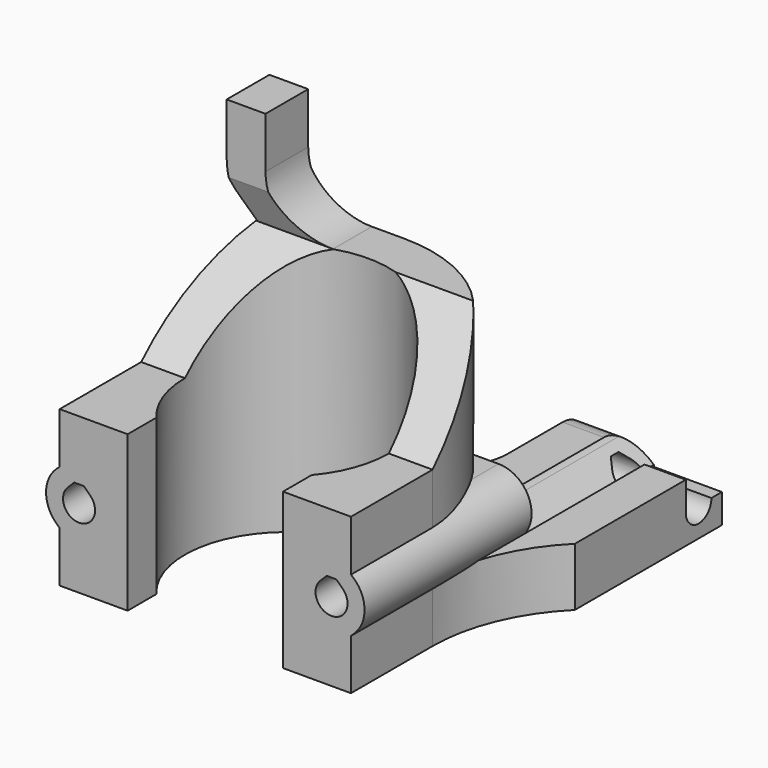
from build123d import *

# Parameters (mm, degrees)
PAD003_DEPTH    = 6.5
SKETCH016_R     = 10.5
POCKET005_DEPTH = 37.001
POCKET006_DEPTH = 20.001
SKETCH018_R     = 3.4
POCKET007_DEPTH = 20
PAD001_DEPTH    = 21.5
PAD002_DEPTH    = 6
PAD_DEPTH       = 26
SKETCH010_R     = 3.4
POCKET_DEPTH    = 20
POCKET001_DEPTH = 26.001
POCKET002_DEPTH = 41.501
POCKET003_DEPTH = 40.001
POCKET004_DEPTH = 7


with BuildPart() as body006:
    # Sketch015 → Pad003 (new body)
    with BuildSketch(Plane.XZ.offset(-19)):
        with BuildLine():
            Line((7.845523, 28.25), (9, 26))
            Line((9, 26), (9, 0))
            Line((9, 0), (20, 0))
            Line((20, 0), (20, 26))
            Line((16.75, 26), (20, 26))
            ThreePointArc((11, 31.75), (12.684136, 27.684136), (16.75, 26))
            Line((11, 31.75), (11, 37))
            Line((11, 37), (7, 37))
            Line((7, 37), (7, 31.75))
            ThreePointArc((7, 31.75), (7.214378, 29.949659), (7.845523, 28.25))
        make_face()
    extrude(amount=-PAD003_DEPTH)

    # Sketch016 → Pocket005 (cut, through all)
    with BuildSketch(Plane.XY):
        with Locations((20, 10.5)):
            Circle(SKETCH016_R)
    extrude(amount=POCKET005_DEPTH, mode=Mode.SUBTRACT)

    # Sketch017 → Pocket006 (cut, through all)
    with BuildSketch(Plane.YZ):
        Polygon((20.5, 0), (20.5, 26), (19, 30), (19, 0), align=None)
        Polygon((25.5, 26), (24.5, 30), (24.5, 37), (25.5, 37), align=None)
    extrude(amount=POCKET006_DEPTH, mode=Mode.SUBTRACT)

    # Sketch018 → Pocket007 (cut)
    with BuildSketch(Plane.XZ.offset(-41.5)):
        with Locations((7, 8)):
            Circle(SKETCH018_R)
        with BuildLine():
            ThreePointArc((35.404163, 5.595837), (33, 11.4), (30.595837, 5.595837))
            Line((30.595837, 5.595837), (33, 3.191674))
            Line((33, 3.191674), (35.404163, 5.595837))
        make_face()
    extrude(amount=POCKET007_DEPTH, mode=Mode.SUBTRACT)


with BuildPart() as obj1:
    # Sketch006 → Pad001 (new body)
    with BuildSketch(Plane.XZ):
        with BuildLine():
            ThreePointArc((7, 11.4), (3.85881, 9.301124), (4.595837, 5.595837))
            Line((10.191674, 0), (4.595837, 5.595837))
            Line((10.191674, 0), (29.808326, 0))
            Line((29.808326, 0), (35.404163, 5.595837))
            ThreePointArc((35.404163, 5.595837), (36.14119, 9.301124), (33, 11.4))
            Line((33, 11.4), (7, 11.4))
        make_face()
    extrude(amount=-PAD001_DEPTH)


with BuildPart() as sideboltboss:
    # Sketch007 → Pad002 (new body)
    with BuildSketch(Plane.XY):
        with BuildLine():
            Line((5, 0), (5, 10.5))
            ThreePointArc((20, 25.5), (9.393398, 21.106602), (5, 10.5))
            ThreePointArc((20, 25.5), (24.242641, 27.257359), (26, 31.5))
            Line((26, 41.5), (26, 31.5))
            Line((40, 41.5), (26, 41.5))
            Line((40, 22.571068), (40, 41.5))
            ThreePointArc((40, 22.571068), (36.299458, 17.032815), (35, 10.5))
            Line((35, 0), (35, 10.5))
            Line((5, 0), (35, 0))
        make_face()
    extrude(amount=PAD002_DEPTH)


with BuildPart() as fusion001:
    # Sketch → Pad (new body)
    with BuildSketch(Plane.XY):
        with BuildLine():
            ThreePointArc((35, 10.5), (20, 25.5), (5, 10.5))
            Line((5, 0), (5, 10.5))
            Line((5, 0), (35, 0))
            Line((35, 0), (35, 10.5))
        make_face()
    extrude(amount=PAD_DEPTH)

    # Fusion: union obj1, SideBoltBoss
    add(obj1.part)
    add(sideboltboss.part)

    # Sketch010 → Pocket (cut)
    with BuildSketch(Plane.XZ.offset(-41.5)):
        with Locations((7, 8)):
            Circle(SKETCH010_R)
        with BuildLine():
            ThreePointArc((35.404163, 5.595837), (33, 11.4), (30.595837, 5.595837))
            Line((30.595837, 5.595837), (33, 3.191674))
            Line((33, 3.191674), (35.404163, 5.595837))
        make_face()
    extrude(amount=POCKET_DEPTH, mode=Mode.SUBTRACT)

    # Sketch011 → Pocket001 (cut, through all)
    with BuildSketch(Plane.XY):
        with BuildLine():
            ThreePointArc((28, 3.699265), (20, 21), (12, 3.699265))
            Line((12, 3.699265), (12, 0))
            Line((12, 0), (28, 0))
            Line((28, 3.699265), (28, 0))
        make_face()
    extrude(amount=POCKET001_DEPTH, mode=Mode.SUBTRACT)

    # Sketch012 → Pocket002 (cut, through all)
    with BuildSketch(Plane.XZ.offset(-41.5)):
        with BuildLine():
            ThreePointArc((5.833274, 9.166726), (7, 6.35), (8.166726, 9.166726))
            Line((7.5, 9.833452), (8.166726, 9.166726))
            Line((6.5, 9.833452), (7.5, 9.833452))
            Line((5.833274, 9.166726), (6.5, 9.833452))
        make_face()
        with BuildLine():
            ThreePointArc((31.833274, 9.166726), (33, 6.35), (34.166726, 9.166726))
            Line((33.5, 9.833452), (34.166726, 9.166726))
            Line((32.5, 9.833452), (33.5, 9.833452))
            Line((31.833274, 9.166726), (32.5, 9.833452))
        make_face()
    extrude(amount=POCKET002_DEPTH, mode=Mode.SUBTRACT)

    # Sketch013 → Pocket003 (cut, through all)
    with BuildSketch(Plane.YZ):
        Polygon((0, 16), (10.5, 16), (20.5, 26), (0, 26), align=None)
        with BuildLine():
            ThreePointArc((37.333274, 4.166726), (38.5, 1.35), (39.666726, 4.166726))
            Line((39, 4.833452), (39.666726, 4.166726))
            Line((38, 4.833452), (39, 4.833452))
            Line((37.333274, 4.166726), (38, 4.833452))
        make_face()
        with BuildLine():
            ThreePointArc((41.5, 3), (40.62132, 5.12132), (38.5, 6))
            Line((35.5, 6), (38.5, 6))
            Line((35.5, 9), (35.5, 6))
            Line((44.5, 9), (35.5, 9))
            Line((44.5, 0), (44.5, 9))
            Line((41.5, 0), (44.5, 0))
            Line((41.5, 3), (41.5, 0))
        make_face()
    extrude(amount=POCKET003_DEPTH, mode=Mode.SUBTRACT)

    # Sketch014 → Pocket004 (cut)
    with BuildSketch(Plane.YZ.offset(40)):
        Polygon((38.5, 8), (43.5, 8), (43.5, 3), (38.5, 3), (36.85, 3), (36.85, 8), align=None)
    extrude(amount=-POCKET004_DEPTH, mode=Mode.SUBTRACT)

    # Fusion001: union Body006
    add(body006.part)


solid = fusion001.part
